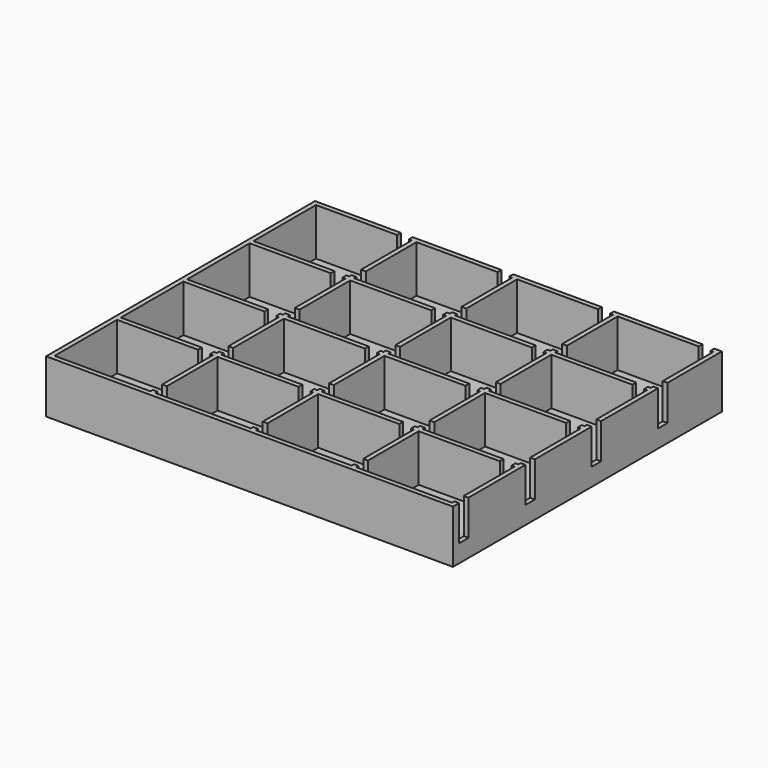
from build123d import *

# Parameters (mm, degrees)
SKETCH_W             = 57
SKETCH_H             = 69
PAD_DEPTH            = 9
SKETCH001_W          = 13.25
SKETCH001_H          = 16.25
POCKET_DEPTH         = 8
SKETCH002_W          = 2
SKETCH002_H          = 51.95
SKETCH002_W_2        = 42.95
SKETCH002_H_2        = 2
POCKET015_DEPTH      = 6
BODY_PLACEMENT_ANGLE = 90


with BuildPart() as part:
    # Sketch → Pad (new body)
    with BuildSketch(Plane.XY):
        with Locations((28.5, 34.5)):
            Rectangle(SKETCH_W, SKETCH_H)
    extrude(amount=PAD_DEPTH)

    # Sketch001 (on Face6 of Pad) → Pocket (cut)
    with BuildSketch(Plane.XY.offset(9)):
        with Locations((7.425, 60.075)):
            Rectangle(SKETCH001_W, SKETCH001_H)
        with Locations((21.475, 60.075)):
            Rectangle(SKETCH001_W, SKETCH001_H)
        with Locations((35.525, 60.075)):
            Rectangle(SKETCH001_W, SKETCH001_H)
        with Locations((49.575, 60.075)):
            Rectangle(SKETCH001_W, SKETCH001_H)
        with Locations((7.425, 43.025)):
            Rectangle(SKETCH001_W, SKETCH001_H)
        with Locations((7.425, 25.975)):
            Rectangle(SKETCH001_W, SKETCH001_H)
        with Locations((7.425, 8.925)):
            Rectangle(SKETCH001_W, SKETCH001_H)
        with Locations((21.475, 43.025)):
            Rectangle(SKETCH001_W, SKETCH001_H)
        with Locations((35.525, 43.025)):
            Rectangle(SKETCH001_W, SKETCH001_H)
        with Locations((49.575, 43.025)):
            Rectangle(SKETCH001_W, SKETCH001_H)
        with Locations((21.475, 25.975)):
            Rectangle(SKETCH001_W, SKETCH001_H)
        with Locations((35.525, 25.975)):
            Rectangle(SKETCH001_W, SKETCH001_H)
        with Locations((49.575, 25.975)):
            Rectangle(SKETCH001_W, SKETCH001_H)
        with Locations((21.475, 8.925)):
            Rectangle(SKETCH001_W, SKETCH001_H)
        with Locations((35.525, 8.925)):
            Rectangle(SKETCH001_W, SKETCH001_H)
        with Locations((49.575, 8.925)):
            Rectangle(SKETCH001_W, SKETCH001_H)
    extrude(amount=-POCKET_DEPTH, mode=Mode.SUBTRACT)

    # Sketch002 (on Face5 of Pocket) → Pocket015 (cut)
    with BuildSketch(Plane.XY.offset(9)):
        with Locations((2.3, 25.975)):
            Rectangle(SKETCH002_W, SKETCH002_H)
        with Locations((16.35, 25.975)):
            Rectangle(SKETCH002_W, SKETCH002_H)
        with Locations((30.4, 25.975)):
            Rectangle(SKETCH002_W, SKETCH002_H)
        with Locations((44.45, 25.975)):
            Rectangle(SKETCH002_W, SKETCH002_H)
        with Locations((35.525, 53.45)):
            Rectangle(SKETCH002_W_2, SKETCH002_H_2)
        with Locations((35.525, 36.4)):
            Rectangle(SKETCH002_W_2, SKETCH002_H_2)
        with Locations((35.525, 19.35)):
            Rectangle(SKETCH002_W_2, SKETCH002_H_2)
        with Locations((35.525, 2.3)):
            Rectangle(SKETCH002_W_2, SKETCH002_H_2)
    extrude(amount=-POCKET015_DEPTH, mode=Mode.SUBTRACT)


with BuildPart() as part_1:
    # Body placement: moved
    add(part.part.moved(Location((75, 4, -2))).rotate(Axis((75, 4, -2), (0, 0, 1)), BODY_PLACEMENT_ANGLE))


solid = part_1.part
